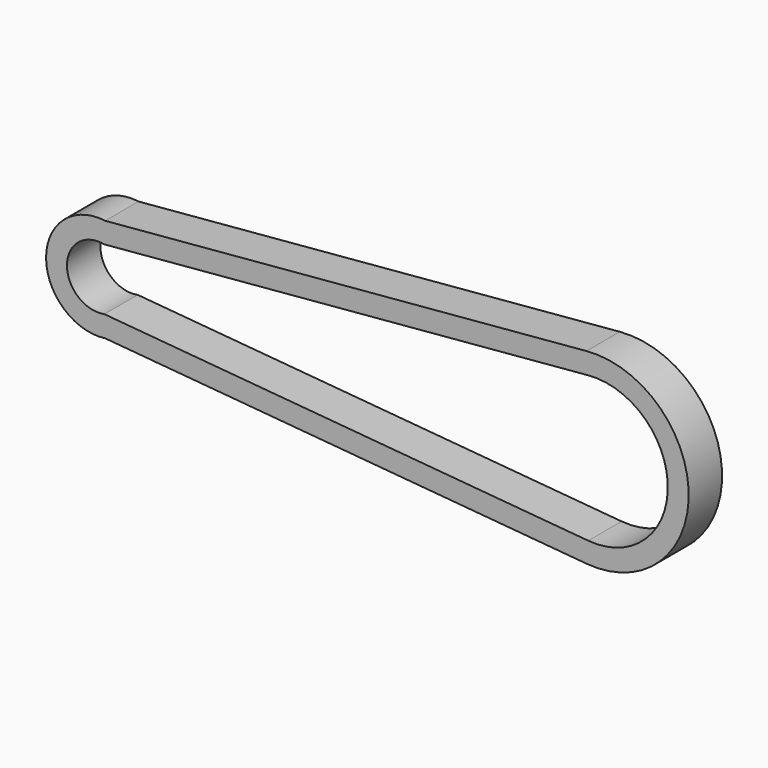
from build123d import *

# Parameters (mm, degrees)
F1_DEPTH = 12.7


with BuildPart() as f1:
    # F0 (on Front) → F1 (new body)
    with BuildSketch(Plane.XZ):
        with BuildLine():
            Line((-150.551847, -9.34398), (-3.358897, -22.137524))
            ThreePointArc((-3.358897, -22.137524), (20.836046, 0), (-3.358897, 22.137524))
            Line((-3.358897, 22.137524), (-150.551847, 9.34398))
            ThreePointArc((-150.551847, 9.34398), (-161.925, 0), (-150.551847, -9.34398))
        make_face()
        with BuildLine():
            ThreePointArc((-3.914835, -28.463144), (27.186046, 0), (-3.914835, 28.463144))
            Line((-3.914835, 28.463144), (-150.319663, 15.738101))
            ThreePointArc((-150.319663, 15.738101), (-168.275, 0), (-150.319663, -15.738101))
            Line((-150.319663, -15.738101), (-3.914835, -28.463144))
        make_face()
        with BuildLine():
            ThreePointArc((-3.358897, 22.137524), (20.836046, 0), (-3.358897, -22.137524))
            Line((-3.358897, -22.137524), (-150.551847, -9.34398))
            ThreePointArc((-150.551847, -9.34398), (-161.925, 0), (-150.551847, 9.34398))
            Line((-150.551847, 9.34398), (-3.358897, 22.137524))
        make_face(mode=Mode.SUBTRACT)
    extrude(amount=F1_DEPTH)


solid = f1.part
